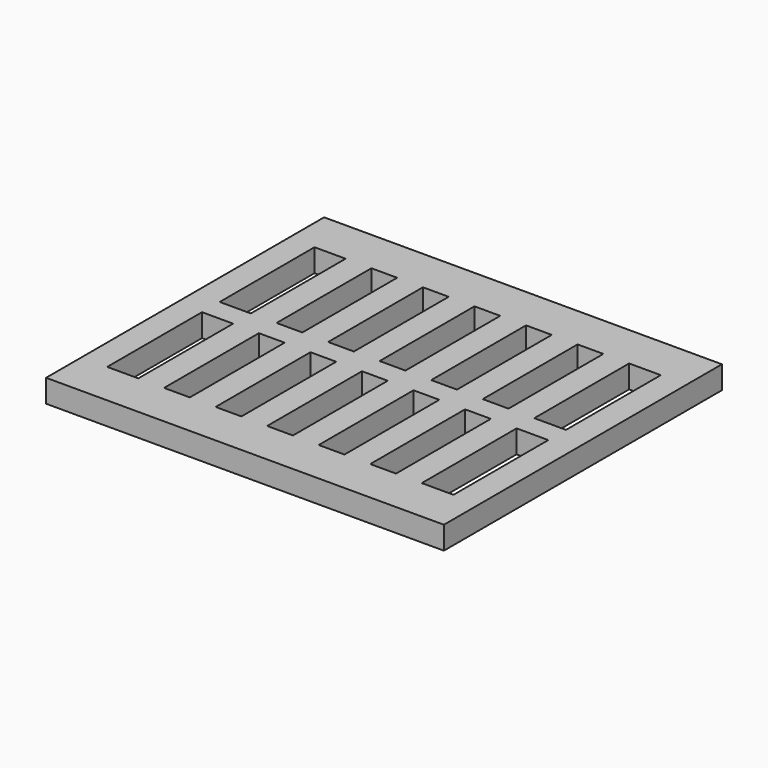
from build123d import *

# Parameters (mm, degrees)
F0_W     = 28.18
F0_H     = 129.6
F0_W_2   = 34.66
F0_H_2   = 24.16
F0_W_3   = 34
F1_DEPTH = 25


with BuildPart() as f1:
    # F0 (on Top) → F1 (new body)
    with BuildSketch(Plane.XY):
        Polygon((0, 380), (0, 331.68), (28.18, 331.68), (36.34, 331.68), (62.18, 331.68), (90.36, 331.68), (118.54, 331.68), (146.72, 331.68), (174.9, 331.68), (203.08, 331.68), (231.26, 331.68), (259.44, 331.68), (287.62, 331.68), (315.8, 331.68), (343.98, 331.68), (372.16, 331.68), (398.66, 331.68), (406.82, 331.68), (435, 331.68), (435, 380), align=None)
        with Locations((14.09, 266.88)):
            Rectangle(F0_W, F0_H)
        with Locations((76.27, 266.88)):
            Rectangle(F0_W, F0_H)
        with Locations((132.63, 266.88)):
            Rectangle(F0_W, F0_H)
        with Locations((188.99, 266.88)):
            Rectangle(F0_W, F0_H)
        with Locations((245.35, 266.88)):
            Rectangle(F0_W, F0_H)
        with Locations((301.71, 266.88)):
            Rectangle(F0_W, F0_H)
        with Locations((358.07, 266.88)):
            Rectangle(F0_W, F0_H)
        with Locations((420.91, 266.88)):
            Rectangle(F0_W, F0_H)
        Polygon((406.82, 177.92), (435, 177.7537763119), (435, 202.08), (406.82, 202.08), align=None)
        with Locations((389.49, 190)):
            Rectangle(F0_W_2, F0_H_2)
        with Locations((358.07, 190)):
            Rectangle(F0_W, F0_H_2)
        with Locations((329.89, 190)):
            Rectangle(F0_W, F0_H_2)
        with Locations((301.71, 190)):
            Rectangle(F0_W, F0_H_2)
        with Locations((273.53, 190)):
            Rectangle(F0_W, F0_H_2)
        with Locations((245.35, 190)):
            Rectangle(F0_W, F0_H_2)
        with Locations((217.17, 190)):
            Rectangle(F0_W, F0_H_2)
        with Locations((188.99, 190)):
            Rectangle(F0_W, F0_H_2)
        with Locations((160.81, 190)):
            Rectangle(F0_W, F0_H_2)
        with Locations((132.63, 190)):
            Rectangle(F0_W, F0_H_2)
        with Locations((104.45, 190)):
            Rectangle(F0_W, F0_H_2)
        with Locations((76.27, 190)):
            Rectangle(F0_W, F0_H_2)
        with Locations((45.18, 190)):
            Rectangle(F0_W_3, F0_H_2)
        with Locations((14.09, 190)):
            Rectangle(F0_W, F0_H_2)
        with Locations((14.09, 113.12)):
            Rectangle(F0_W, F0_H)
        with Locations((76.27, 113.12)):
            Rectangle(F0_W, F0_H)
        with Locations((132.63, 113.12)):
            Rectangle(F0_W, F0_H)
        with Locations((188.99, 113.12)):
            Rectangle(F0_W, F0_H)
        with Locations((245.35, 113.12)):
            Rectangle(F0_W, F0_H)
        with Locations((301.71, 113.12)):
            Rectangle(F0_W, F0_H)
        with Locations((358.07, 113.12)):
            Rectangle(F0_W, F0_H)
        Polygon((406.82, 48.32), (435, 48.32), (435, 177.7537763119), (406.82, 177.92), align=None)
        Polygon((0, 48.32), (0, 0), (435, 0), (435, 48.32), (406.82, 48.32), (372.16, 48.32), (343.98, 48.32), (315.8, 48.32), (287.62, 48.32), (259.44, 48.32), (231.26, 48.32), (203.08, 48.32), (174.9, 48.32), (146.72, 48.32), (118.54, 48.32), (90.36, 48.32), (62.18, 48.32), (28.18, 48.32), align=None)
    extrude(amount=F1_DEPTH)


solid = f1.part
